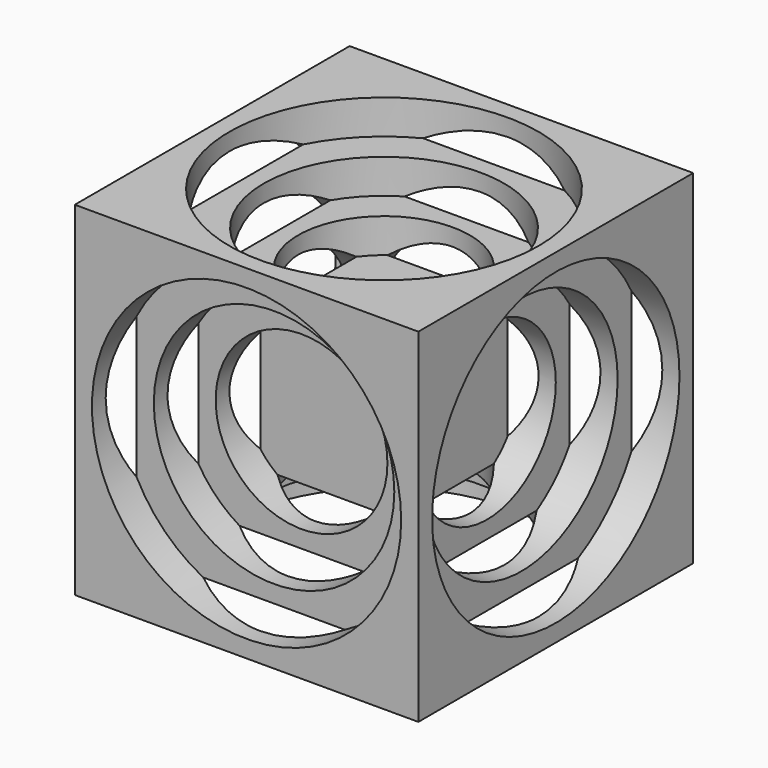
from build123d import *

# Parameters (mm, degrees)
F2_W          = 100
F2_H          = 100
F3_DEPTH      = 50
F3_DEPTH_BACK = 50
F5_R          = 45
F6_DEPTH      = 10
F8_R          = 45
F9_DEPTH      = 10
F11_R         = 45
F12_DEPTH     = 10
F14_R         = 45
F15_DEPTH     = 10
F17_R         = 45
F18_DEPTH     = 10
F20_R         = 45
F21_DEPTH     = 10
F22_R         = 35
F23_DEPTH     = 10
F24_R         = 35
F25_DEPTH     = 10
F26_R         = 35
F27_DEPTH     = 10
F28_R         = 35
F29_DEPTH     = 10
F30_R         = 35
F31_DEPTH     = 10
F32_R         = 35
F33_DEPTH     = 10
F34_R         = 25
F35_DEPTH     = 10
F36_R         = 25
F37_DEPTH     = 10
F38_R         = 25
F39_DEPTH     = 10
F40_R         = 25
F41_DEPTH     = 10
F42_R         = 25
F43_DEPTH     = 10
F44_R         = 25
F45_DEPTH     = 10


with BuildPart() as f3:
    # F2 (on Top) → F3 (new body, two sides)
    with BuildSketch(Plane.XY) as f3_sk:
        Rectangle(F2_W, F2_H)
    extrude(amount=F3_DEPTH)
    extrude(f3_sk.sketch, amount=-F3_DEPTH_BACK)

    # F5 (on offset) → F6 (cut)
    with BuildSketch(Plane.XZ.offset(50)):
        Circle(F5_R)
    extrude(amount=-F6_DEPTH, mode=Mode.SUBTRACT)

    # F8 (on offset) → F9 (cut)
    with BuildSketch(Plane.YZ.offset(50)):
        Circle(F8_R)
    extrude(amount=-F9_DEPTH, mode=Mode.SUBTRACT)

    # F11 (on offset) → F12 (cut)
    with BuildSketch(Plane.XY.offset(50)):
        Circle(F11_R)
    extrude(amount=-F12_DEPTH, mode=Mode.SUBTRACT)

    # F14 (on offset) → F15 (cut)
    with BuildSketch(Plane.XY.offset(-50)):
        Circle(F14_R)
    extrude(amount=F15_DEPTH, mode=Mode.SUBTRACT)

    # F17 (on offset) → F18 (cut)
    with BuildSketch(Plane.XZ.offset(-50)):
        Circle(F17_R)
    extrude(amount=F18_DEPTH, mode=Mode.SUBTRACT)

    # F20 (on offset) → F21 (cut)
    with BuildSketch(Plane.YZ.offset(-50)):
        Circle(F20_R)
    extrude(amount=F21_DEPTH, mode=Mode.SUBTRACT)

    # F22 (on face) → F23 (cut)
    with BuildSketch(Plane(origin=(-40, 0, 0), x_dir=(0, -1, 0), z_dir=(-1, 0, 0))):
        Circle(F22_R)
    extrude(amount=-F23_DEPTH, mode=Mode.SUBTRACT)

    # F24 (on face) → F25 (cut)
    with BuildSketch(Plane.XZ.offset(40)):
        Circle(F24_R)
    extrude(amount=-F25_DEPTH, mode=Mode.SUBTRACT)

    # F26 (on face) → F27 (cut)
    with BuildSketch(Plane.XY.offset(40)):
        Circle(F26_R)
    extrude(amount=-F27_DEPTH, mode=Mode.SUBTRACT)

    # F28 (on face) → F29 (cut)
    with BuildSketch(Plane(origin=(0, 40, 0), x_dir=(-1, 0, 0), z_dir=(0, 1, 0))):
        Circle(F28_R)
    extrude(amount=-F29_DEPTH, mode=Mode.SUBTRACT)

    # F30 (on face) → F31 (cut)
    with BuildSketch(Plane(origin=(0, 0, -40), x_dir=(1, 0, 0), z_dir=(0, 0, -1))):
        Circle(F30_R)
    extrude(amount=-F31_DEPTH, mode=Mode.SUBTRACT)

    # F32 (on face) → F33 (cut)
    with BuildSketch(Plane.YZ.offset(40)):
        Circle(F32_R)
    extrude(amount=-F33_DEPTH, mode=Mode.SUBTRACT)

    # F34 (on face) → F35 (cut)
    with BuildSketch(Plane.XZ.offset(30)):
        Circle(F34_R)
    extrude(amount=-F35_DEPTH, mode=Mode.SUBTRACT)

    # F36 (on face) → F37 (cut)
    with BuildSketch(Plane(origin=(0, 0, -30), x_dir=(1, 0, 0), z_dir=(0, 0, -1))):
        Circle(F36_R)
    extrude(amount=-F37_DEPTH, mode=Mode.SUBTRACT)

    # F38 (on face) → F39 (cut)
    with BuildSketch(Plane(origin=(0, 30, 0), x_dir=(-1, 0, 0), z_dir=(0, 1, 0))):
        Circle(F38_R)
    extrude(amount=-F39_DEPTH, mode=Mode.SUBTRACT)

    # F40 (on face) → F41 (cut)
    with BuildSketch(Plane.XY.offset(30)):
        Circle(F40_R)
    extrude(amount=-F41_DEPTH, mode=Mode.SUBTRACT)

    # F42 (on face) → F43 (cut)
    with BuildSketch(Plane.YZ.offset(30)):
        Circle(F42_R)
    extrude(amount=-F43_DEPTH, mode=Mode.SUBTRACT)

    # F44 (on face) → F45 (cut)
    with BuildSketch(Plane(origin=(-30, 0, 0), x_dir=(0, -1, 0), z_dir=(-1, 0, 0))):
        Circle(F44_R)
    extrude(amount=-F45_DEPTH, mode=Mode.SUBTRACT)


solid = f3.part
